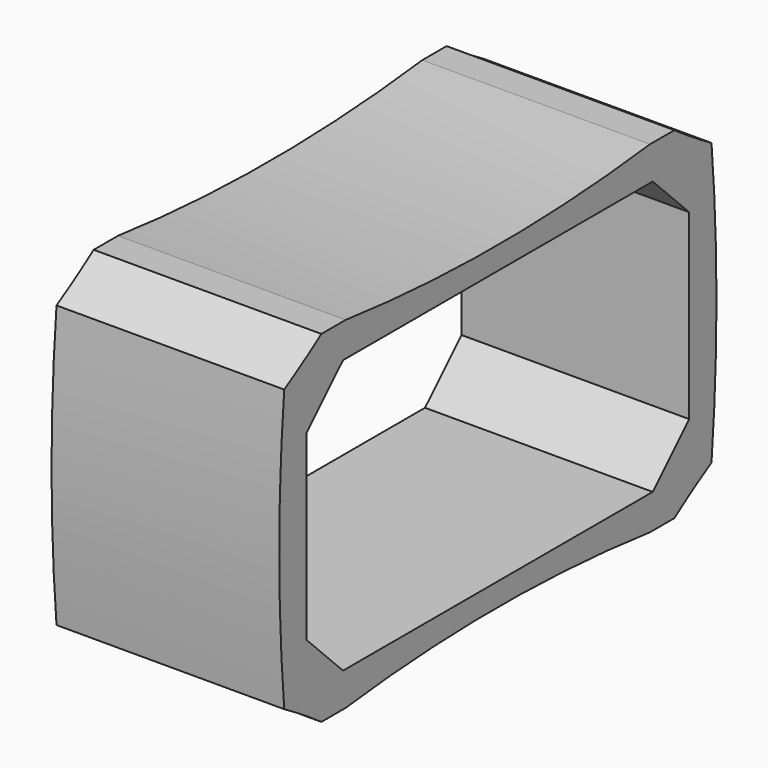
from build123d import *

# Parameters (mm, degrees)
BOX011_W          = 10
BOX011_H          = 21
BOX011_DEPTH      = 12
CHAMFER001_SIZE   = 2
CYLINDER032_R     = 30
CYLINDER032_DEPTH = 10
CYLINDER031_R     = 30
CYLINDER031_DEPTH = 10
CYLINDER030_R     = 30
CYLINDER030_DEPTH = 10
CYLINDER028_R     = 30
CYLINDER028_DEPTH = 10
CYLINDER029_R     = 70
CYLINDER029_DEPTH = 10
CYLINDER027_R     = 70
CYLINDER027_DEPTH = 10
CYLINDER026_R     = 70
CYLINDER026_DEPTH = 10
CYLINDER025_R     = 70
CYLINDER025_DEPTH = 10
BOX008_W          = 10
BOX008_H          = 24
BOX008_DEPTH      = 15


with BuildPart() as chamfer001:
    # Box011 → Box011 (new body)
    with BuildSketch(Plane(origin=(2, 12, 9), x_dir=(1, 0, 0), z_dir=(0, 0, 1))):
        with Locations((5, 10.5)):
            Rectangle(BOX011_W, BOX011_H)
    extrude(amount=BOX011_DEPTH)

    # Chamfer001
    chamfer001_edges = [chamfer001.edges().sort_by_distance(p)[0] for p in [
        (7, 12, 9),
        (7, 12, 21),
        (7, 33, 9),
        (7, 33, 21),
    ]]
    chamfer(chamfer001_edges, length=CHAMFER001_SIZE)


with BuildPart() as chamfer001_1:
    # Chamfer001 placement: moved
    add(chamfer001.part.moved(Location((0, 135, 0))))


with BuildPart() as cylinder032:
    # Cylinder032 → Cylinder032 (new body)
    with BuildSketch(Plane(origin=(22, -27, 39.5), x_dir=(0, 0, -1), z_dir=(1, 0, 0))):
        Circle(CYLINDER032_R)
    extrude(amount=CYLINDER032_DEPTH)


with BuildPart() as cylinder031:
    # Cylinder031 → Cylinder031 (new body)
    with BuildSketch(Plane(origin=(22, -27, -24.5), x_dir=(0, 0, -1), z_dir=(1, 0, 0))):
        Circle(CYLINDER031_R)
    extrude(amount=CYLINDER031_DEPTH)


with BuildPart() as cylinder030:
    # Cylinder030 → Cylinder030 (new body)
    with BuildSketch(Plane(origin=(22, 27, -24.5), x_dir=(0, 0, -1), z_dir=(1, 0, 0))):
        Circle(CYLINDER030_R)
    extrude(amount=CYLINDER030_DEPTH)


with BuildPart() as cylinder028:
    # Cylinder028 → Cylinder028 (new body)
    with BuildSketch(Plane(origin=(22, 27, 39.5), x_dir=(0, 0, -1), z_dir=(1, 0, 0))):
        Circle(CYLINDER028_R)
    extrude(amount=CYLINDER028_DEPTH)


with BuildPart() as cylinder029:
    # Cylinder029 → Cylinder029 (new body)
    with BuildSketch(Plane(origin=(22, -58, 7.5), x_dir=(0, 0, -1), z_dir=(1, 0, 0))):
        Circle(CYLINDER029_R)
    extrude(amount=CYLINDER029_DEPTH)


with BuildPart() as cylinder027:
    # Cylinder027 → Cylinder027 (new body)
    with BuildSketch(Plane(origin=(22, 58, 7.5), x_dir=(0, 0, -1), z_dir=(1, 0, 0))):
        Circle(CYLINDER027_R)
    extrude(amount=CYLINDER027_DEPTH)


with BuildPart() as cylinder026:
    # Cylinder026 → Cylinder026 (new body)
    with BuildSketch(Plane(origin=(22, 0, 84.5), x_dir=(0, 0, -1), z_dir=(1, 0, 0))):
        Circle(CYLINDER026_R)
    extrude(amount=CYLINDER026_DEPTH)


with BuildPart() as cylinder025:
    # Cylinder025 → Cylinder025 (new body)
    with BuildSketch(Plane(origin=(22, 0, -69.5), x_dir=(0, 0, -1), z_dir=(1, 0, 0))):
        Circle(CYLINDER025_R)
    extrude(amount=CYLINDER025_DEPTH)


with BuildPart() as cut029:
    # Box008 → Box008 (new body)
    with BuildSketch(Plane(origin=(22, -12, 0), x_dir=(1, 0, 0), z_dir=(0, 0, 1))):
        with Locations((5, 12)):
            Rectangle(BOX008_W, BOX008_H)
    extrude(amount=BOX008_DEPTH)

    # Cut015: cut Cylinder025
    add(cylinder025.part, mode=Mode.SUBTRACT)

    # Cut016: cut Cylinder026
    add(cylinder026.part, mode=Mode.SUBTRACT)

    # Common004: intersect Cylinder027
    add(cylinder027.part, mode=Mode.INTERSECT)

    # Common005: intersect Cylinder029
    add(cylinder029.part, mode=Mode.INTERSECT)

    # Cut017: cut Cylinder028
    add(cylinder028.part, mode=Mode.SUBTRACT)

    # Cut018: cut Cylinder030
    add(cylinder030.part, mode=Mode.SUBTRACT)

    # Cut019: cut Cylinder031
    add(cylinder031.part, mode=Mode.SUBTRACT)

    # Cut020: cut Cylinder032
    add(cylinder032.part, mode=Mode.SUBTRACT)


with BuildPart() as cut029_1:
    # Cut020 placement: moved
    add(cut029.part.moved(Location((-20, 157.5, 7.5))))

    # Cut029: cut Chamfer001
    add(chamfer001_1.part, mode=Mode.SUBTRACT)


solid = cut029_1.part
